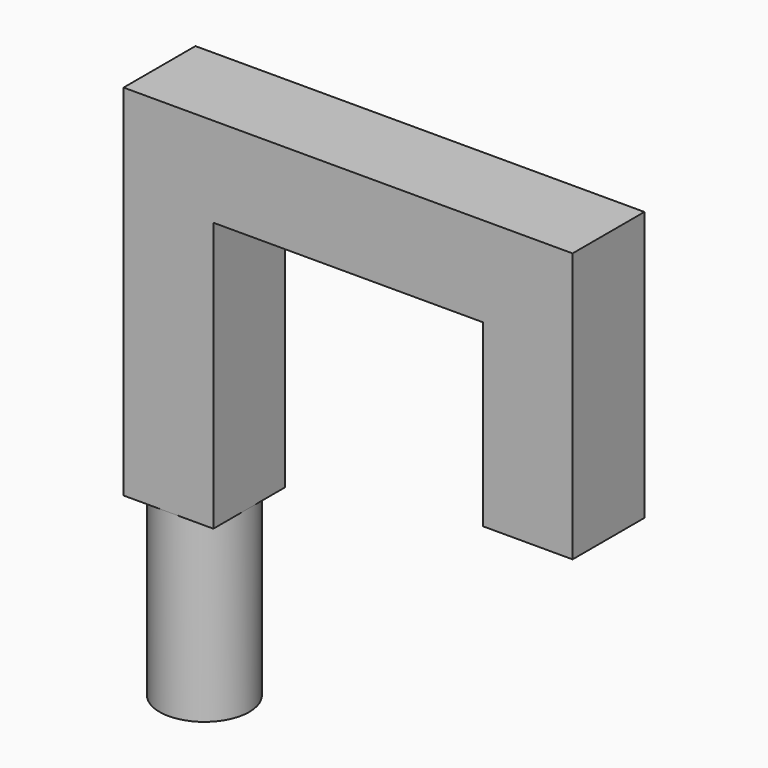
from build123d import *

# Parameters (mm, degrees)
F0_W     = 3.175
F0_H     = 3.175
F1_DEPTH = 12.7
F2_W     = 3.175
F2_H     = 3.175
F3_DEPTH = 12.7
F4_W     = 3.175
F4_H     = 3.175
F5_DEPTH = 6.35
F6_R     = 1.5875
F7_DEPTH = 6.35


with BuildPart() as f1:
    # F0 (on Top) → F1 (new body)
    with BuildSketch(Plane.XY):
        with Locations((1.5875, 1.5875)):
            Rectangle(F0_W, F0_H)
    extrude(amount=F1_DEPTH)

    # F2 (on face) → F3 (join)
    with BuildSketch(Plane.YZ.offset(3.175)):
        with Locations((1.5875, 11.1125)):
            Rectangle(F2_W, F2_H)
    extrude(amount=F3_DEPTH)

    # F4 (on face) → F5 (join)
    with BuildSketch(Plane(origin=(0, 0, 9.525), x_dir=(1, 0, 0), z_dir=(0, 0, -1))):
        with Locations((14.2875, -1.5875)):
            Rectangle(F4_W, F4_H)
    extrude(amount=F5_DEPTH)

    # F6 (on Top) → F7 (join)
    with BuildSketch(Plane.XY):
        with Locations((1.5875, 1.5875)):
            Circle(F6_R)
    extrude(amount=-F7_DEPTH)


solid = f1.part
